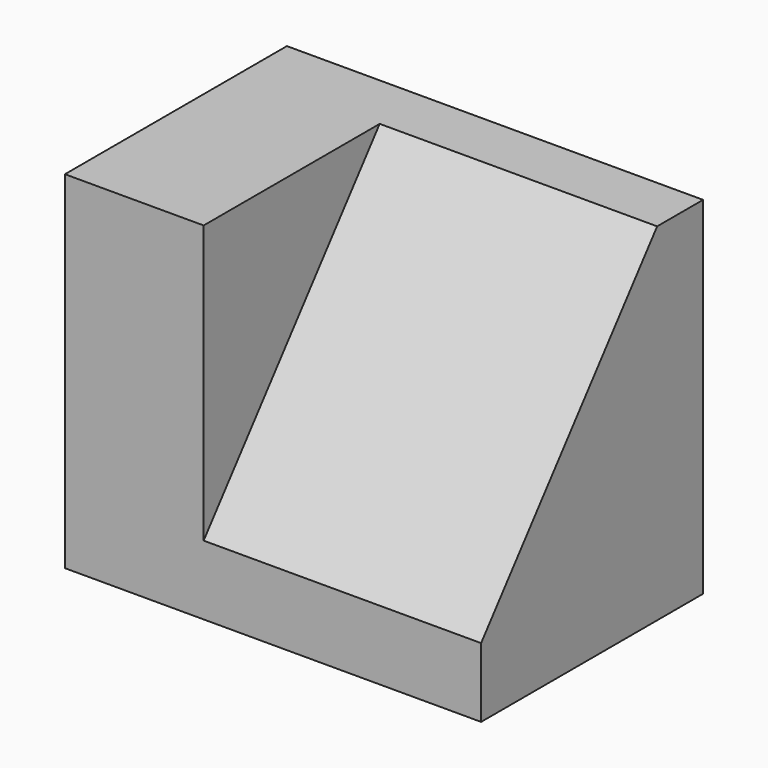
from build123d import *

# Parameters (mm, degrees)
F0_W     = 25.4
F0_H     = 31.75
F1_DEPTH = 12.7
F3_DEPTH = 25.4


with BuildPart() as f1:
    # F0 (on Right) → F1 (new body)
    with BuildSketch(Plane.YZ):
        with Locations((-12.7, 15.875)):
            Rectangle(F0_W, F0_H)
    extrude(amount=F1_DEPTH)

    # F2 (on face) → F3 (join)
    with BuildSketch(Plane.YZ.offset(12.7)):
        Polygon((0, 0), (0, 31.75), (-5.256133, 31.75), (-25.4, 6.35), (-25.4, 0), align=None)
    extrude(amount=F3_DEPTH)


solid = f1.part
